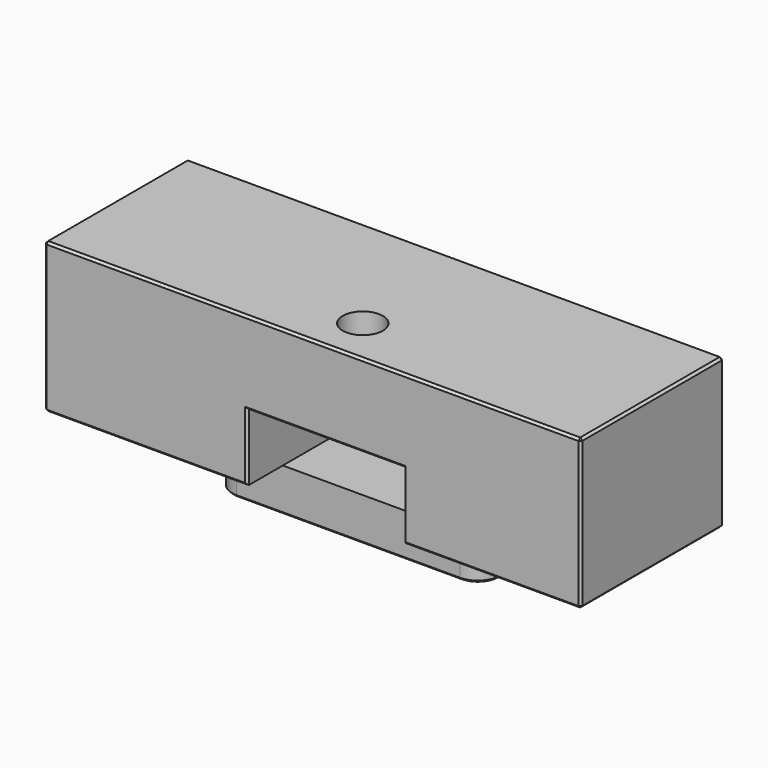
from build123d import *

# Parameters (mm, degrees)
F0_W     = 120
F0_H     = 33.5
F1_DEPTH = 40
F4_DEPTH = 9.7
F5_R     = 4.5
F6_DEPTH = 33.5
F7_W     = 35
F7_H     = 15
F8_DEPTH = 29
F9_SIZE  = 0.5
F10_SIZE = 0.5


with BuildPart() as f1:
    # F0 (on Front) → F1 (new body)
    with BuildSketch(Plane.XZ):
        with Locations((-2.857143, 0)):
            Rectangle(F0_W, F0_H)
    extrude(amount=-F1_DEPTH)

    # F3 (on face) → F4 (join)
    with BuildSketch(Plane(origin=(0, 0, -16.75), x_dir=(1, 0, 0), z_dir=(0, 0, -1))):
        with BuildLine():
            ThreePointArc((27.142857, -15), (25.678391, -11.464466), (22.142857, -10))
            Line((22.142857, -10), (-27.857143, -10))
            ThreePointArc((-27.857143, -10), (-31.392677, -11.464466), (-32.857143, -15))
            Line((-32.857143, -15), (-32.857143, -25))
            ThreePointArc((-32.857143, -25), (-31.392677, -28.535534), (-27.857143, -30))
            Line((-27.857143, -30), (22.142857, -30))
            ThreePointArc((22.142857, -30), (25.678391, -28.535534), (27.142857, -25))
            Line((27.142857, -25), (27.142857, -15))
        make_face()
    extrude(amount=F4_DEPTH)

    # F5 (on face) → F6 (cut)
    with BuildSketch(Plane.XY.offset(16.75)):
        with Locations((0, 10.5)):
            Circle(F5_R)
    extrude(amount=-F6_DEPTH, mode=Mode.SUBTRACT)

    # F7 (on face) → F8 (cut)
    with BuildSketch(Plane.XZ):
        with Locations((0, -9.25)):
            Rectangle(F7_W, F7_H)
    extrude(amount=-F8_DEPTH, mode=Mode.SUBTRACT)

    # F9
    f9_edges = [f1.edges().sort_by_distance(p)[0] for p in [
        (-2.857143, 0, 16.75),
        (57.142857, 20, 16.75),
        (-2.857143, 40, 16.75),
        (-62.857143, 20, 16.75),
        (-62.857143, 0, 0),
        (57.142857, 0, 0),
        (57.142857, 40, 0),
        (-62.857143, 40, 0),
        (-62.857143, 20, -16.75),
        (-40.178572, 0, -16.75),
        (37.321428, 0, -16.75),
        (-17.5, 0, -9.25),
        (0, 0, -1.75),
        (17.5, 0, -9.25),
        (57.142857, 20, -16.75),
        (-2.857143, 40, -16.75),
    ]]
    chamfer(f9_edges, length=F9_SIZE)

    # F10
    f10_edges = [f1.edges().sort_by_distance(p)[0] for p in [
        (-2.857143, 10, -26.45),
    ]]
    chamfer(f10_edges, length=F10_SIZE)


solid = f1.part
